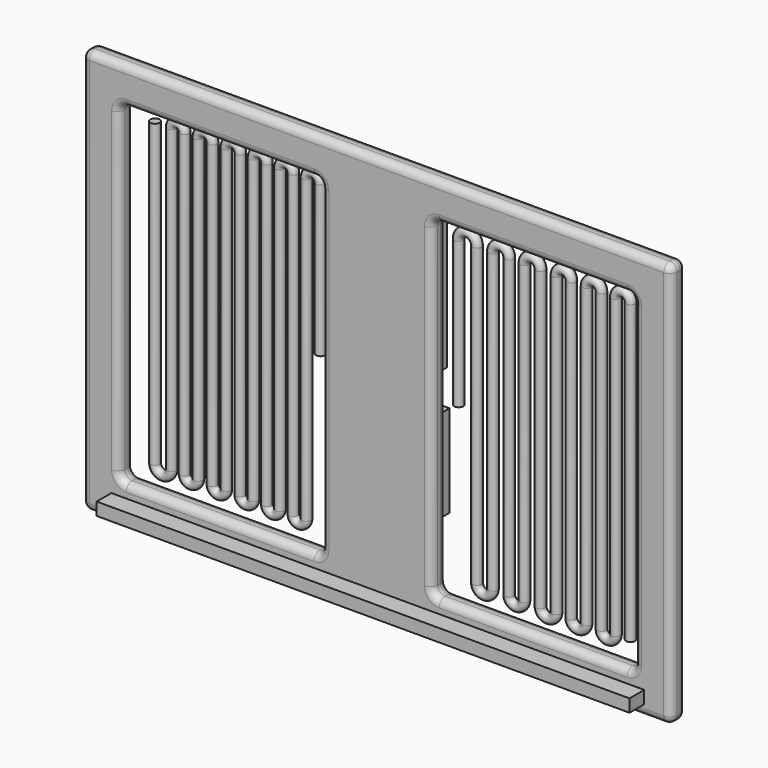
from build123d import *

# Parameters (mm, degrees)
F0_W      = 406.4
F0_H      = 279.4
F1_DEPTH  = 12.7
F2_W      = 355.6
F2_H      = 228.6
F3_DEPTH  = 12.7
F4_W      = 76.2
F4_H      = 228.6
F5_DEPTH  = 12.7
F6_R      = 5.08
F8_R      = 3.1693868875
F11_R     = 3.175
F13_W     = 367.6685392857
F13_H     = 8.7410137057
F14_DEPTH = 25.4
F15_W     = 57.15
F15_H     = 107.95
F16_DEPTH = 12.7
F17_W     = 50.8
F17_H     = 63.5
F18_DEPTH = 19.05


with BuildPart() as f1:
    # F0 (on Front) → F1 (new body)
    with BuildSketch(Plane.XZ):
        Rectangle(F0_W, F0_H)
    extrude(amount=F1_DEPTH)

    # F2 (on face) → F3 (cut)
    with BuildSketch(Plane.XZ.offset(12.7)):
        Rectangle(F2_W, F2_H)
    extrude(amount=-F3_DEPTH, mode=Mode.SUBTRACT)

    # F4 (on Front) → F5 (join)
    with BuildSketch(Plane.XZ):
        Rectangle(F4_W, F4_H)
    extrude(amount=F5_DEPTH)

    # F6
    f6_edges = [f1.edges().sort_by_distance(p)[0] for p in [
        (203.2, -6.35, 139.7),
        (-203.2, -6.35, 139.7),
        (0, 0, 139.7),
        (0, -12.7, 139.7),
        (-203.2, -6.35, -139.7),
        (203.2, -6.35, -139.7),
        (0, 0, -139.7),
        (0, -12.7, -139.7),
        (-203.2, 0, 0),
        (-203.2, -12.7, 0),
        (203.2, 0, 0),
        (203.2, -12.7, 0),
        (-177.8, -6.35, 114.3),
        (-177.8, -6.35, -114.3),
        (-177.8, -12.7, 0),
        (-177.8, 0, 0),
        (177.8, -6.35, -114.3),
        (177.8, -6.35, 114.3),
        (177.8, -12.7, 0),
        (177.8, 0, 0),
        (-38.1, -6.35, 114.3),
        (-38.1, -6.35, -114.3),
        (-38.1, 0, 0),
        (-38.1, -12.7, 0),
        (38.1, -6.35, -114.3),
        (38.1, -6.35, 114.3),
        (38.1, 0, 0),
        (38.1, -12.7, 0),
        (107.95, 0, 114.3),
        (107.95, 0, -114.3),
        (-107.95, 0, 114.3),
        (-107.95, 0, -114.3),
        (107.95, -12.7, 114.3),
        (107.95, -12.7, -114.3),
        (-107.95, -12.7, 114.3),
        (-107.95, -12.7, -114.3),
    ]]
    fillet(f6_edges, radius=F6_R)

    # F13 (on Front) → F14 (join)
    with BuildSketch(Plane.XZ):
        with Locations((0.8194744587, -127.5640465319)):
            Rectangle(F13_W, F13_H)
    extrude(amount=F14_DEPTH)


with BuildPart() as f9:
    # F9: sweep along a path in F7
    with BuildLine(Plane.XZ) as f9_path:
        Line((46.4532346726, 0), (46.4532346726, 100.8416265249))
        ThreePointArc((46.4532346726, 100.8416265249), (52.7632751087, 107.1516669611), (59.0733155449, 100.8416265249))
        Line((59.0733155449, 100.8416265249), (59.0733155449, -104.0449440479))
        ThreePointArc((59.0733155449, -104.0449440479), (64.5844031333, -109.5560316363), (70.0954907217, -104.0449440479))
        Line((70.0954907217, -104.0449440479), (70.0954907217, 100.8416265249))
        ThreePointArc((70.0954907217, 100.8416265249), (75.7023978857, 106.4485336889), (81.3093050497, 100.8416265249))
        Line((81.3093050497, 100.8416265249), (81.3093050497, -104.0449440479))
        ThreePointArc((81.3093050497, -104.0449440479), (86.5704824427, -109.3061214409), (91.8316598356, -104.0449440479))
        Line((91.8316598356, -104.0449440479), (91.8316598356, 100.8416265249))
        ThreePointArc((91.8316598356, 100.8416265249), (97.3746245414, 106.3845912307), (102.9175892472, 100.8416265249))
        Line((102.9175892472, 100.8416265249), (102.9175892472, -104.0449440479))
        ThreePointArc((102.9175892472, -104.0449440479), (108.4611192346, -109.5884740353), (114.0046492219, -104.0449440479))
        Line((114.0046492219, -104.0449440479), (114.0046492219, 100.8416265249))
        ThreePointArc((114.0046492219, 100.8416265249), (119.0661340952, 105.9031113982), (124.1276189685, 100.8416265249))
        Line((124.1276189685, 100.8416265249), (124.1276189685, -104.0449440479))
        ThreePointArc((124.1276189685, -104.0449440479), (129.4301338494, -109.3474589288), (134.7326487303, -104.0449440479))
        Line((134.7326487303, -104.0449440479), (134.7326487303, 100.8416265249))
        ThreePointArc((134.7326487303, 100.8416265249), (139.8400503664, 105.949028161), (144.9474520025, 100.8416265249))
        Line((144.9474520025, 100.8416265249), (144.9474520025, -104.0449440479))
        ThreePointArc((144.9474520025, -104.0449440479), (149.9630126624, -109.0605047078), (154.9785733223, -104.0449440479))
        Line((154.9785733223, -104.0449440479), (154.9785733223, 100.8416265249))
        ThreePointArc((154.9785733223, 100.8416265249), (160.0400656462, 105.9031188488), (165.10155797, 100.8416265249))
        Line((165.10155797, 100.8416265249), (165.10155797, -104.0449440479))
    # F8 (on Top) → F9 (sweep)
    with BuildSketch(Plane.XY):
        with Locations((46.4532346726, 0)):
            Circle(F8_R)
    sweep(path=f9_path.line)


with BuildPart() as f12:
    # F12: sweep along a path in F10
    with BuildLine(Plane.XZ) as f12_path:
        Line((-48.9139740207, 0), (-48.9139740207, 103.9303988218))
        ThreePointArc((-48.9139740207, 103.9303988218), (-53.7323997251, 108.7488245262), (-58.5508254295, 103.9303988218))
        Line((-58.5508254295, 103.9303988218), (-58.5508254295, -103.3817902207))
        ThreePointArc((-58.5508254295, -103.3817902207), (-63.1004325031, -107.9313972943), (-67.6500395767, -103.3817902207))
        Line((-67.6500395767, -103.3817902207), (-67.6500395767, 103.9303988218))
        ThreePointArc((-67.6500395767, 103.9303988218), (-72.2651191882, 108.5454784334), (-76.8801987998, 103.9303988218))
        Line((-76.8801987998, 103.9303988218), (-76.8801987998, -103.3817902207))
        ThreePointArc((-76.8801987998, -103.3817902207), (-81.4058766182, -107.9074680392), (-85.9315544367, -103.3817902207))
        Line((-85.9315544367, -103.3817902207), (-85.9315544367, 104.1120961308))
        ThreePointArc((-85.9315544367, 104.1120961308), (-90.5018001795, 108.6823418736), (-95.0720459223, 104.1120961308))
        Line((-95.0720459223, 104.1120961308), (-95.0720459223, -103.3817902207))
        ThreePointArc((-95.0720459223, -103.3817902207), (-99.677324295, -107.9870685935), (-104.2826026678, -103.3817902207))
        Line((-104.2826026678, -103.3817902207), (-104.2826026678, 104.1120961308))
        ThreePointArc((-104.2826026678, 104.1120961308), (-109.0901456773, 108.9196391404), (-113.8976886868, 104.1120961308))
        Line((-113.8976886868, 104.1120961308), (-113.8976886868, -103.3817902207))
        ThreePointArc((-113.8976886868, -103.3817902207), (-118.673786521, -108.1578880548), (-123.4498843551, -103.3817902207))
        Line((-123.4498843551, -103.3817902207), (-123.4498843551, 104.1120961308))
        ThreePointArc((-123.4498843551, 104.1120961308), (-128.3106915653, 108.9729033411), (-133.1714987755, 104.1120961308))
        Line((-133.1714987755, 104.1120961308), (-133.1714987755, -103.3817902207))
        ThreePointArc((-133.1714987755, -103.3817902207), (-137.9320323467, -108.142323792), (-142.692565918, -103.3817902207))
        Line((-142.692565918, -103.3817902207), (-142.692565918, 104.1120961308))
        ThreePointArc((-142.692565918, 104.1120961308), (-147.1347138286, 108.5542440414), (-151.5768617392, 104.1120961308))
        Line((-151.5768617392, 104.1120961308), (-151.5768617392, -103.3817902207))
        ThreePointArc((-151.5768617392, -103.3817902207), (-157.3408320546, -109.1457605362), (-163.1048023701, -103.3817902207))
        Line((-163.1048023701, -103.3817902207), (-163.1048023701, 104.1120961308))
    # F11 (on Top) → F12 (sweep)
    with BuildSketch(Plane.XY):
        with Locations((-48.9139740207, 0)):
            Circle(F11_R)
    sweep(path=f12_path.line)


with BuildPart() as f16:
    # F15 (on Front) → F16 (new body)
    with BuildSketch(Plane.XZ):
        with Locations((-0.2952609211, 65.5384714989)):
            Rectangle(F15_W, F15_H)
    extrude(amount=-F16_DEPTH)


with BuildPart() as f18:
    # F17 (on Front) → F18 (new body)
    with BuildSketch(Plane.XZ):
        with Locations((-0.496385619, -48.7531421969)):
            Rectangle(F17_W, F17_H)
    extrude(amount=-F18_DEPTH)


solid = Compound([f1.part, f9.part, f12.part, f16.part, f18.part])
